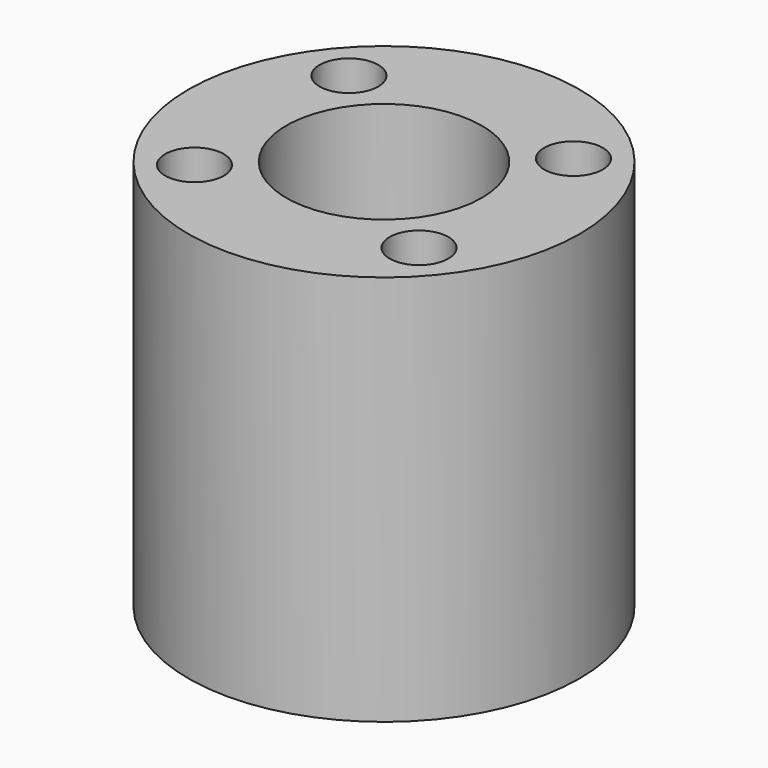
from build123d import *

# Parameters (mm, degrees)
F0_R     = 12.7
F0_R_2   = 1.905
F0_R_3   = 6.35
F1_DEPTH = 25.4
F0_R_4   = 4.0005
F2_DEPTH = 7.62
F3_DEPTH = 7.62


with BuildPart() as f1:
    # F0 (on Top) → F1 (new body)
    with BuildSketch(Plane.XY):
        Circle(F0_R)
        with Locations((-7.286887, -6.266722)):
            Circle(F0_R_2, mode=Mode.SUBTRACT)
        Circle(F0_R_3, mode=Mode.SUBTRACT)
        with Locations((7.286887, -6.266722)):
            Circle(F0_R_2, mode=Mode.SUBTRACT)
        with Locations((-7.286887, 6.266722)):
            Circle(F0_R_2, mode=Mode.SUBTRACT)
        with Locations((7.286887, 6.266722)):
            Circle(F0_R_2, mode=Mode.SUBTRACT)
    extrude(amount=F1_DEPTH)

    # F0 (on Top) → F2 (join)
    with BuildSketch(Plane.XY):
        Circle(F0_R_3)
        Circle(F0_R_4, mode=Mode.SUBTRACT)
    extrude(amount=F2_DEPTH)

    # F0 (on Top) → F3 (join)
    with BuildSketch(Plane.XY):
        Circle(F0_R_4)
    extrude(amount=F3_DEPTH)


solid = f1.part
